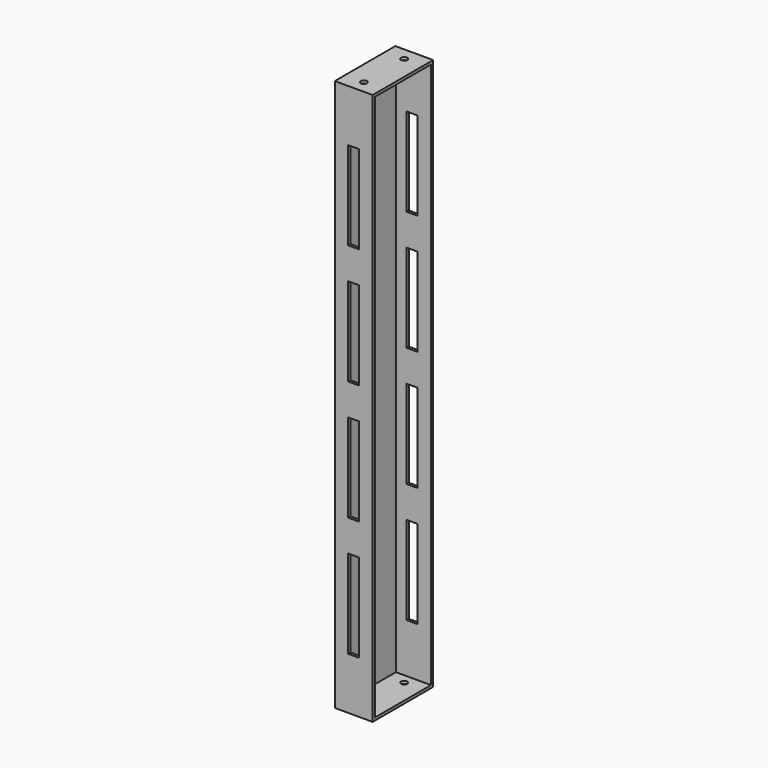
from build123d import *

# Parameters (mm, degrees)
F0_W     = 38.1
F0_H     = 76.2
F1_DEPTH = 277.8125
F2_T     = -2.778125
F3_R     = 3.175
F4_DEPTH = 555.626
F5_W     = 11.1125
F5_H     = 88.9
F6_DEPTH = 76.201


with BuildPart() as f1:
    # F0 (on Top) → F1 (new body, symmetric)
    with BuildSketch(Plane.XY):
        with Locations((19.05, 38.1)):
            Rectangle(F0_W, F0_H)
    extrude(amount=F1_DEPTH, both=True)

    # F2
    f2_openings = [f1.faces().sort_by_distance(p)[0] for p in [
        (38.1, 38.1, 0),
    ]]
    offset(amount=F2_T, openings=f2_openings)

    # F3 (on face) → F4 (cut, through all)
    with BuildSketch(Plane(origin=(0, 0, -277.8125), x_dir=(1, 0, 0), z_dir=(0, 0, -1))):
        with Locations((19.05, -12.7)):
            Circle(F3_R)
        with Locations((19.05, -63.5)):
            Circle(F3_R)
    extrude(amount=-F4_DEPTH, mode=Mode.SUBTRACT)

    # F5 (on face) → F6 (cut, through all)
    with BuildSketch(Plane.XZ):
        with Locations((19.05, -180.975)):
            Rectangle(F5_W, F5_H)
        with Locations((19.05, -60.325)):
            Rectangle(F5_W, F5_H)
        with Locations((19.05, 60.325)):
            Rectangle(F5_W, F5_H)
        with Locations((19.05, 180.975)):
            Rectangle(F5_W, F5_H)
    extrude(amount=-F6_DEPTH, mode=Mode.SUBTRACT)


solid = f1.part
